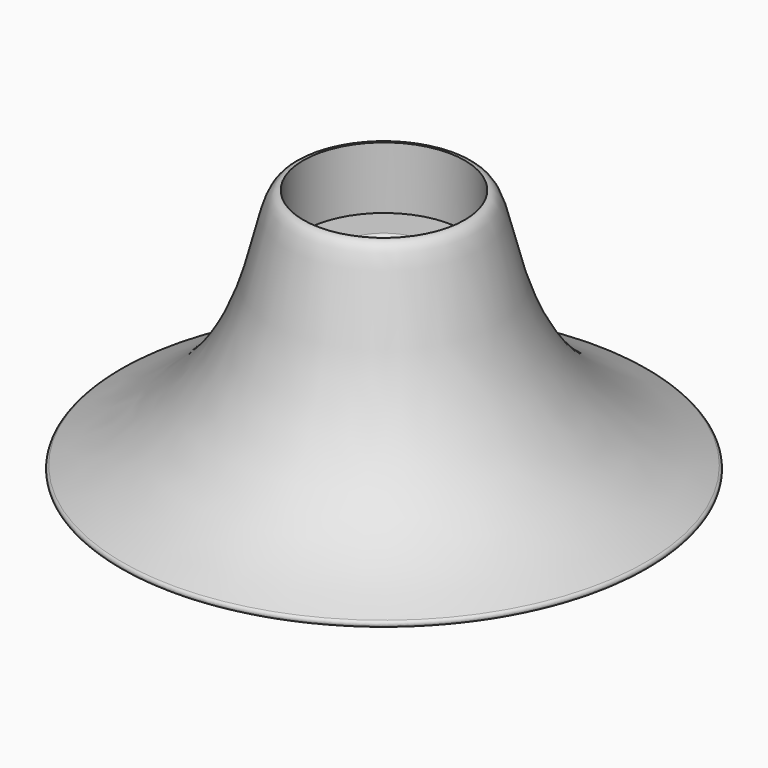
from build123d import *

# Parameters (mm, degrees)
F2_R     = 7
F3_DEPTH = 50
F2_R_2   = 13
F4_DEPTH = 9
F6_R     = 13
F7_DEPTH = 10
F8_R     = 0.5


with BuildPart() as f1:
    # F0 (on Front) → F1 (revolve)
    with BuildSketch(Plane.XZ):
        with BuildLine():
            Line((-45, 0), (0, 0))
            Line((0, 0), (0, 40))
            Line((0, 40), (-13, 40))
            add(Edge.make_bspline(
                [(-45, 0), (-13, 10), (-18.7027398497, 40.0445796549), (-13, 40)],
                knots=[0, 0, 0, 0, 51.2249938995, 51.2249938995, 51.2249938995, 51.2249938995], degree=3))
        make_face()
    revolve(axis=Axis((0, 0, 20), (0, 0, -1)))

    # F2 (on face) → F3 (cut)
    with BuildSketch(Plane(origin=(0, 0, 0), x_dir=(1, 0, 0), z_dir=(0, 0, -1))):
        Circle(F2_R)
    extrude(amount=-F3_DEPTH, mode=Mode.SUBTRACT)

    # F2 (on face) → F4 (cut)
    with BuildSketch(Plane(origin=(0, 0, 0), x_dir=(1, 0, 0), z_dir=(0, 0, -1))):
        Circle(F2_R_2)
        Circle(F2_R, mode=Mode.SUBTRACT)
    extrude(amount=-F4_DEPTH, mode=Mode.SUBTRACT)

    # F6 (on line) → F7 (cut)
    with BuildSketch(Plane(origin=(0, 0, 40), x_dir=(1, 0, 0), z_dir=(0, 0, -1))):
        Circle(F6_R)
    extrude(amount=F7_DEPTH, mode=Mode.SUBTRACT)

    # F8
    f8_edges = [f1.edges().sort_by_distance(p)[0] for p in [
        (-7, 0, 30),
        (-7, 0, 9),
        (45, 0, 0),
    ]]
    fillet(f8_edges, radius=F8_R)


solid = f1.part
